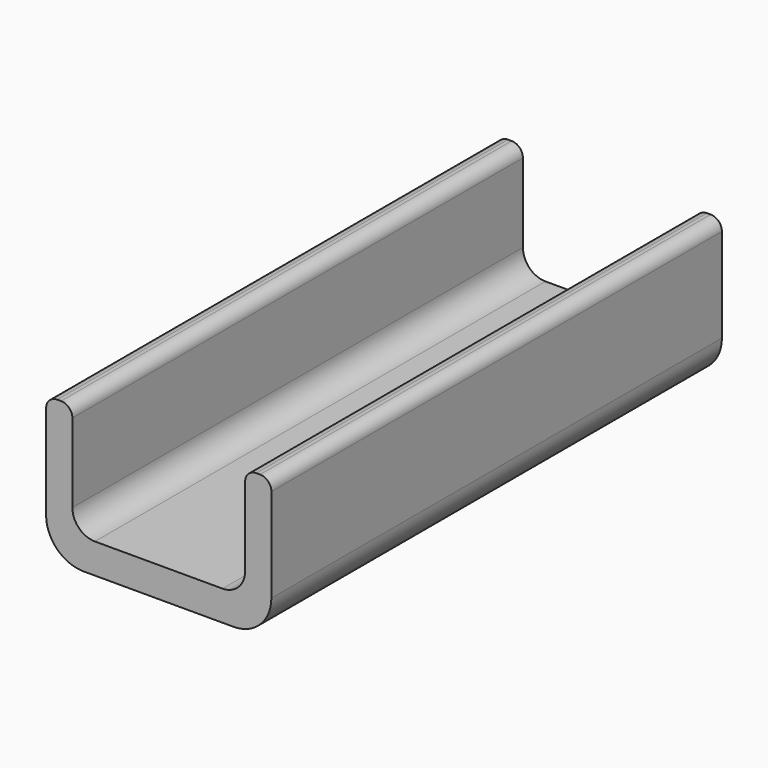
from build123d import *

# Parameters (mm, degrees)
F1_DEPTH = 15


with BuildPart() as f1:
    # F0 (on Front) → F1 (new body)
    with BuildSketch(Plane.XZ):
        with BuildLine():
            Line((-2.777976, 3.8), (-2.877976, 3.8))
            ThreePointArc((-2.877976, 3.8), (-3.090108, 3.712132), (-3.177976, 3.5))
            Line((-3.177976, 3.5), (-3.177976, 1))
            ThreePointArc((-3.177976, 1), (-2.885083, 0.292893), (-2.177976, 0))
            Line((-2.177976, 0), (1.822024, 0))
            ThreePointArc((1.822024, 0), (2.52913, 0.292893), (2.822024, 1))
            Line((2.822024, 1), (2.822024, 3.5))
            ThreePointArc((2.822024, 3.5), (2.734156, 3.712132), (2.522024, 3.8))
            Line((2.522024, 3.8), (2.422024, 3.8))
            ThreePointArc((2.422024, 3.8), (2.209892, 3.712132), (2.122024, 3.5))
            Line((2.122024, 3.5), (2.122024, 1.4))
            ThreePointArc((2.122024, 1.4), (1.946288, 0.975736), (1.522024, 0.8))
            Line((1.522024, 0.8), (-1.877976, 0.8))
            ThreePointArc((-1.877976, 0.8), (-2.30224, 0.975736), (-2.477976, 1.4))
            Line((-2.477976, 1.4), (-2.477976, 3.5))
            ThreePointArc((-2.477976, 3.5), (-2.565844, 3.712132), (-2.777976, 3.8))
        make_face()
    extrude(amount=-F1_DEPTH)


solid = f1.part
